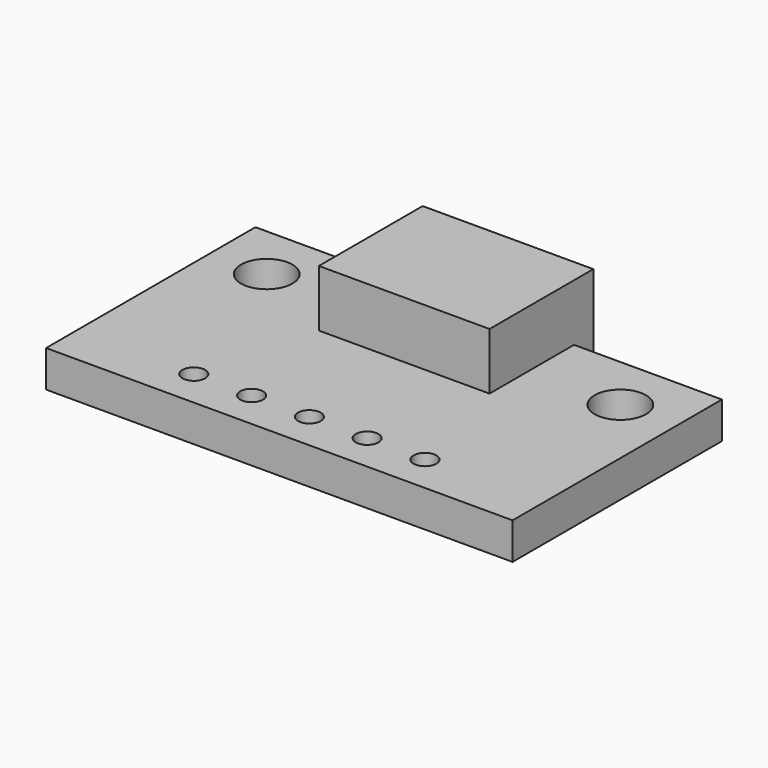
from build123d import *

# Parameters (mm, degrees)
F0_R     = 0.5
F0_R_2   = 1.13
F1_DEPTH = 1.61
F0_W     = 7.5
F0_H     = 4.64
F0_H_2   = 1.06
F2_DEPTH = 4.11


with BuildPart() as f1:
    # F0 (on Top) → F1 (new body)
    with BuildSketch(Plane.XY):
        Polygon((-10.25, -5.75), (10.25, -5.75), (10.25, 5.75), (3.75, 5.75), (3.75, 1.11), (-3.75, 1.11), (-3.75, 5.75), (-10.25, 5.75), align=None)
        with Locations((-5.08, -4.1)):
            Circle(F0_R, mode=Mode.SUBTRACT)
        with Locations((-2.54, -4.1)):
            Circle(F0_R, mode=Mode.SUBTRACT)
        with Locations((0, -4.1)):
            Circle(F0_R, mode=Mode.SUBTRACT)
        with Locations((2.54, -4.1)):
            Circle(F0_R, mode=Mode.SUBTRACT)
        with Locations((5.08, -4.1)):
            Circle(F0_R, mode=Mode.SUBTRACT)
        with Locations((-7.77, 3.27)):
            Circle(F0_R_2, mode=Mode.SUBTRACT)
        with Locations((7.77, 3.27)):
            Circle(F0_R_2, mode=Mode.SUBTRACT)
    extrude(amount=F1_DEPTH)

    # F0 (on Top) → F2 (join)
    with BuildSketch(Plane.XY):
        with Locations((0, 3.43)):
            Rectangle(F0_W, F0_H)
        with Locations((0, 6.28)):
            Rectangle(F0_W, F0_H_2)
    extrude(amount=F2_DEPTH)


solid = f1.part
